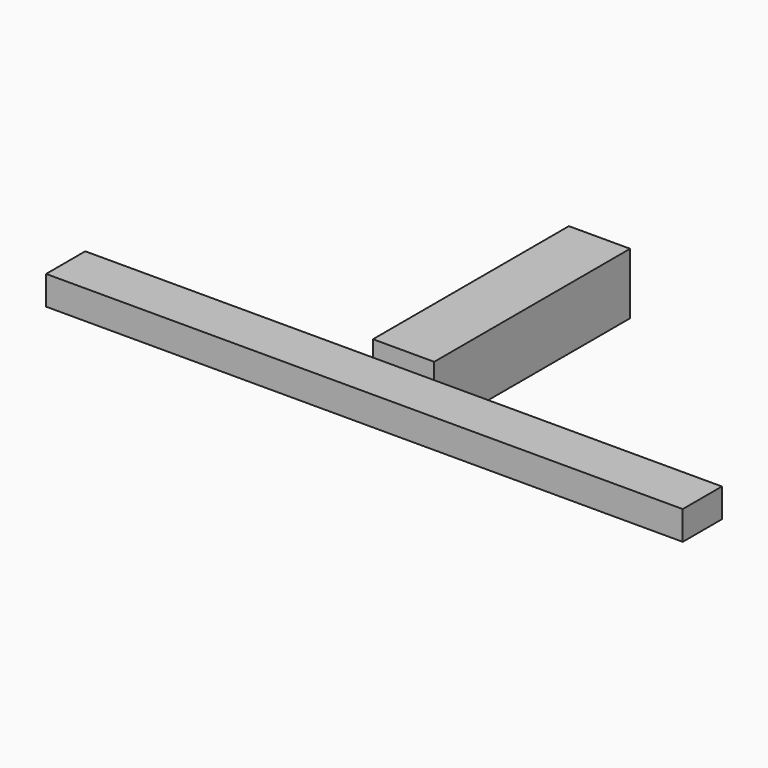
from build123d import *

# Parameters (mm, degrees)
F0_W     = 3.175
F0_H     = 3.175
F1_DEPTH = 12.7
F3_DEPTH = 2.54


with BuildPart() as f1:
    # F0 (on Front) → F1 (new body)
    with BuildSketch(Plane.XZ):
        with Locations((-35.348453, 10.855628)):
            Rectangle(F0_W, F0_H)
    extrude(amount=F1_DEPTH)

    # F2 (on face) → F3 (join)
    with BuildSketch(Plane.XZ.offset(12.7)):
        Polygon((-18.838453, 11.604373), (-35.348453, 11.604373), (-35.348453, 10.855628), (-35.348453, 10.106883), (-18.838453, 10.106883), align=None)
        Polygon((-35.348453, 10.855628), (-35.348453, 11.604373), (-51.858453, 11.604373), (-51.858453, 10.106883), (-35.348453, 10.106883), align=None)
    extrude(amount=F3_DEPTH)


solid = f1.part
